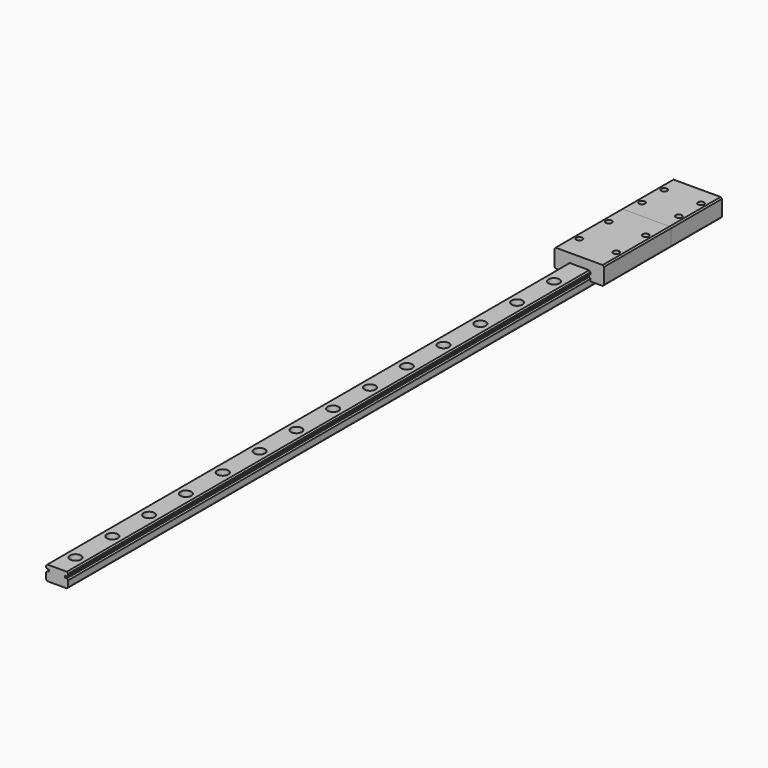
from build123d import *

# Parameters (mm, degrees)
F1_DEPTH  = 400
F2_R      = 1.75
F3_DEPTH  = 8.001
F4_R      = 3
F5_DEPTH  = 4.5
F7_DEPTH  = 45.4
F8_DEPTH  = 34.7
F11_D     = 3.3
F11_DEPTH = 4
F11_TIP   = 0.9914200214
F12_D     = 3.3
F12_DEPTH = 4
F12_TIP   = 0.9914200214


with BuildPart() as f1:
    # F0 (on Front) → F1 (new body)
    with BuildSketch(Plane.XZ):
        Polygon((-5.2928932188, -4), (5.2928932188, -4), (6, -3.2928932188), (6, 0.0857864376), (5.2928932188, 0.7928932188), (4.2928932188, 0.7928932188), (4.2928932188, 1.7928932188), (5.2928932188, 1.7928932188), (6, 2.5), (6, 3.2928932188), (5.2928932188, 4), (-5.2928932188, 4), (-6, 3.2928932188), (-6, 2.5), (-5.2928932188, 1.7928932188), (-4.2928932188, 1.7928932188), (-4.2928932188, 0.7928932188), (-5.2928932188, 0.7928932188), (-6, 0.0857864376), (-6, -3.2928932188), align=None)
    extrude(amount=F1_DEPTH)

    # F2 (on face) → F3 (cut, through all)
    with BuildSketch(Plane.XY.offset(4)):
        with Locations((0, -12.5)):
            Circle(F2_R)
        with Locations((0, -37.5)):
            Circle(F2_R)
        with Locations((0, -62.5)):
            Circle(F2_R)
        with Locations((0, -87.5)):
            Circle(F2_R)
        with Locations((0, -112.5)):
            Circle(F2_R)
        with Locations((0, -137.5)):
            Circle(F2_R)
        with Locations((0, -162.5)):
            Circle(F2_R)
        with Locations((0, -187.5)):
            Circle(F2_R)
        with Locations((0, -212.5)):
            Circle(F2_R)
        with Locations((0, -237.5)):
            Circle(F2_R)
        with Locations((0, -262.5)):
            Circle(F2_R)
        with Locations((0, -287.5)):
            Circle(F2_R)
        with Locations((0, -312.5)):
            Circle(F2_R)
        with Locations((0, -337.5)):
            Circle(F2_R)
        with Locations((0, -362.5)):
            Circle(F2_R)
        with Locations((0, -387.5)):
            Circle(F2_R)
    extrude(amount=-F3_DEPTH, mode=Mode.SUBTRACT)

    # F4 (on face) → F5 (cut)
    with BuildSketch(Plane.XY.offset(4)):
        with Locations((0, -12.5)):
            Circle(F4_R)
        with Locations((0, -37.5)):
            Circle(F4_R)
        with Locations((0, -62.5)):
            Circle(F4_R)
        with Locations((0, -87.5)):
            Circle(F4_R)
        with Locations((0, -112.5)):
            Circle(F4_R)
        with Locations((0, -137.5)):
            Circle(F4_R)
        with Locations((0, -162.5)):
            Circle(F4_R)
        with Locations((0, -187.5)):
            Circle(F4_R)
        with Locations((0, -212.5)):
            Circle(F4_R)
        with Locations((0, -237.5)):
            Circle(F4_R)
        with Locations((0, -262.5)):
            Circle(F4_R)
        with Locations((0, -287.5)):
            Circle(F4_R)
        with Locations((0, -312.5)):
            Circle(F4_R)
        with Locations((0, -337.5)):
            Circle(F4_R)
        with Locations((0, -362.5)):
            Circle(F4_R)
        with Locations((0, -387.5)):
            Circle(F4_R)
    extrude(amount=-F5_DEPTH, mode=Mode.SUBTRACT)


with BuildPart() as f7:
    # F6 (on Front) → F7 (new body)
    with BuildSketch(Plane.XZ):
        Polygon((-12.7928932188, -1), (-6.15, -1), (-6.15, 0.147918472), (-5.2928932188, 1.0050252532), (-5.2928932188, 1.5807611845), (-6.15, 2.4378679656), (-6.15, 3.3550252532), (-5.3550252532, 4.15), (0, 4.15), (5.3550252532, 4.15), (6.15, 3.3550252532), (6.15, 2.4378679656), (5.2928932188, 1.5807611845), (5.2928932188, 1.0050252532), (6.15, 0.147918472), (6.15, -1), (12.7928932188, -1), (13.5, -0.2928932188), (13.5, 8.2928932188), (12.7928932188, 9), (0, 9), (-12.7928932188, 9), (-13.5, 8.2928932188), (-13.5, -0.2928932188), align=None)
    extrude(amount=F7_DEPTH)

    # F11
    with Locations(Plane.XY.offset(9)):
        with Locations((-10, -12.7), (10, -12.7), (-10, -32.7), (10, -32.7)):
            Hole(F11_D / 2, depth=F11_DEPTH)
            with Locations((0, 0, -(F11_DEPTH + F11_TIP / 2))):  # 118° drill point
                Cone(0, F11_D / 2, F11_TIP, mode=Mode.SUBTRACT)


with BuildPart() as f8:
    # F6 (on Front) → F8 (new body)
    with BuildSketch(Plane.XZ):
        Polygon((-12.7928932188, -1), (-6.15, -1), (-6.15, 0.147918472), (-5.2928932188, 1.0050252532), (-5.2928932188, 1.5807611845), (-6.15, 2.4378679656), (-6.15, 3.3550252532), (-5.3550252532, 4.15), (0, 4.15), (5.3550252532, 4.15), (6.15, 3.3550252532), (6.15, 2.4378679656), (5.2928932188, 1.5807611845), (5.2928932188, 1.0050252532), (6.15, 0.147918472), (6.15, -1), (12.7928932188, -1), (13.5, -0.2928932188), (13.5, 8.2928932188), (12.7928932188, 9), (0, 9), (-12.7928932188, 9), (-13.5, 8.2928932188), (-13.5, -0.2928932188), align=None)
    extrude(amount=-F8_DEPTH)

    # F12
    with Locations(Plane.XY.offset(9)):
        with Locations((-10, 24.85), (10, 24.85), (10, 9.85), (-10, 9.85)):
            Hole(F12_D / 2, depth=F12_DEPTH)
            with Locations((0, 0, -(F12_DEPTH + F12_TIP / 2))):  # 118° drill point
                Cone(0, F12_D / 2, F12_TIP, mode=Mode.SUBTRACT)


solid = Compound([f1.part, f7.part, f8.part])
